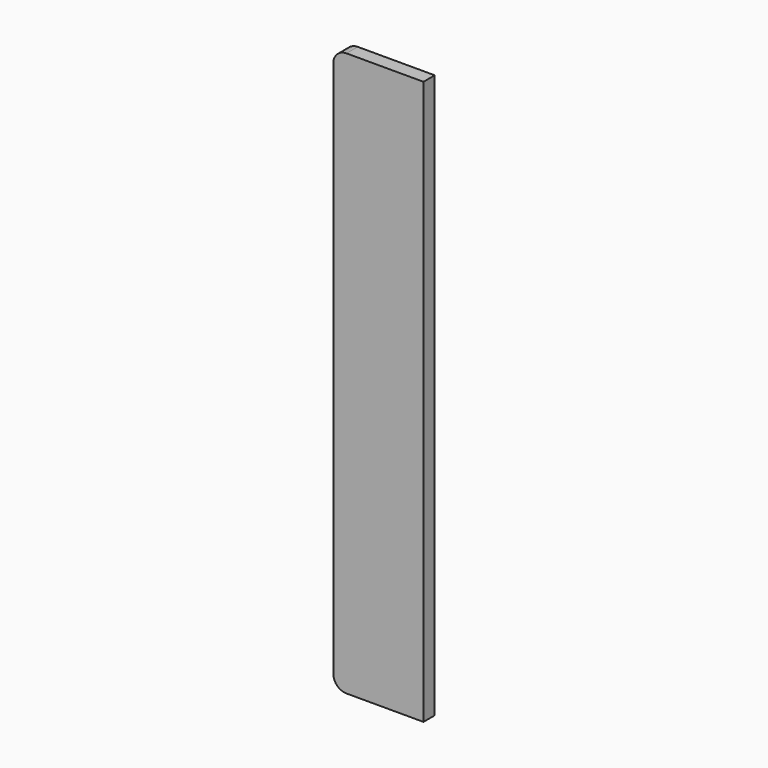
from build123d import *

# Parameters (mm, degrees)
F1_DEPTH = 16


with BuildPart() as f1:
    # F0 (on Front) → F1 (new body)
    with BuildSketch(Plane.XZ):
        with BuildLine():
            Line((102.44, 640), (15, 640))
            ThreePointArc((15, 640), (4.393398, 635.606602), (0, 625))
            Line((0, 625), (0, 15))
            ThreePointArc((0, 15), (4.393398, 4.393398), (15, 0))
            Line((15, 0), (102.44, 0))
            Line((102.44, 0), (102.44, 640))
        make_face()
    extrude(amount=F1_DEPTH)


solid = f1.part
